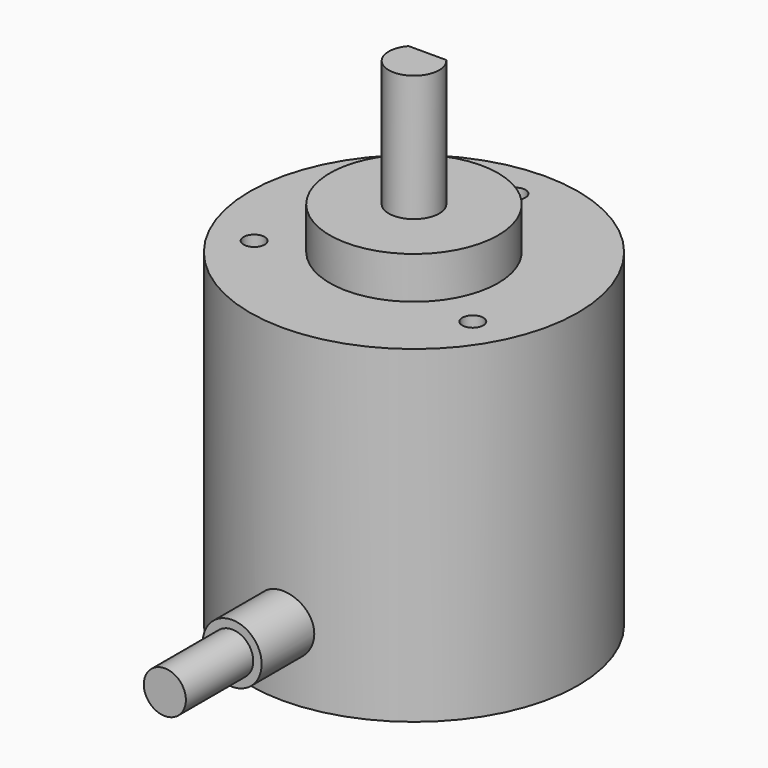
from build123d import *

# Parameters (mm, degrees)
F0_R      = 19.5
F1_DEPTH  = 39
F2_R      = 10
F3_DEPTH  = 5
F4_R      = 3
F5_DEPTH  = 15
F7_D      = 2.5
F7_DEPTH  = 8.5
F7_TIP    = 0.7510757738
F8_W      = 4.472135955
F8_H      = 1
F9_DEPTH  = 10
F10_R     = 3.5
F11_DEPTH = 27
F12_R     = 2.5
F13_DEPTH = 10


with BuildPart() as f1:
    # F0 (on Top) → F1 (new body)
    with BuildSketch(Plane.XY):
        Circle(F0_R)
    extrude(amount=F1_DEPTH)

    # F2 (on face) → F3 (join)
    with BuildSketch(Plane.XY.offset(39)):
        Circle(F2_R)
    extrude(amount=F3_DEPTH)

    # F4 (on face) → F5 (join)
    with BuildSketch(Plane.XY.offset(44)):
        Circle(F4_R)
    extrude(amount=F5_DEPTH)

    # F7
    with Locations(Plane.XY.offset(39)):
        with Locations((0, 15), (-12.9903810568, -7.5), (12.9903810568, -7.5)):
            Hole(F7_D / 2, depth=F7_DEPTH)
            with Locations((0, 0, -(F7_DEPTH + F7_TIP / 2))):  # 118° drill point
                Cone(0, F7_D / 2, F7_TIP, mode=Mode.SUBTRACT)

    # F8 (on face) → F9 (cut)
    with BuildSketch(Plane.XY.offset(59)):
        with Locations((0, 2.5)):
            Rectangle(F8_W, F8_H)
    extrude(amount=-F9_DEPTH, mode=Mode.SUBTRACT)

    # F10 (on Front) → F11 (join)
    with BuildSketch(Plane.XZ):
        with Locations((0, 8)):
            Circle(F10_R)
    extrude(amount=F11_DEPTH)

    # F12 (on face) → F13 (join)
    with BuildSketch(Plane.XZ.offset(27)):
        with Locations((0, 8)):
            Circle(F12_R)
    extrude(amount=F13_DEPTH)


solid = f1.part
